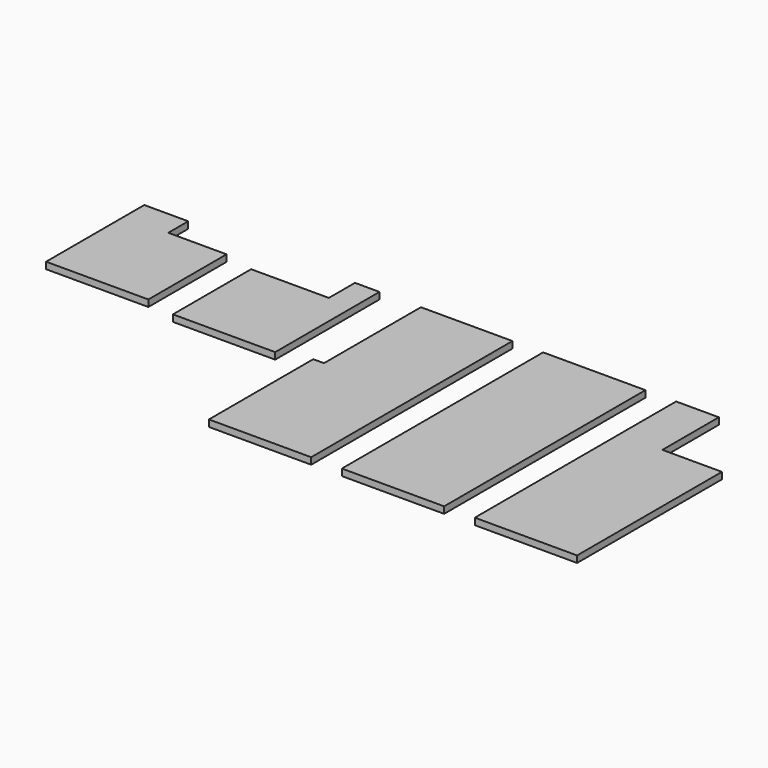
from build123d import *

# Parameters (mm, degrees)
F0_W     = 1000
F0_H     = 2460
F1_DEPTH = 65


with BuildPart() as f1:
    # F0 (on Top) → F1 (new body)
    with BuildSketch(Plane.XY):
        Polygon((-124.673125, 660.025937), (-554.673125, 660.025937), (-554.673125, -539.974063), (445.326875, -539.974063), (445.326875, 416.025937), (-124.673125, 416.025937), align=None)
        Polygon((745.326875, 341.025937), (745.326875, -614.974063), (1745.326875, -614.974063), (1745.326875, 660.025937), (1505.326875, 660.025937), (1505.326875, 341.025937), align=None)
        Polygon((3045.326875, 660.025937), (2150.326875, 660.025937), (2150.326875, -524.974063), (2045.326875, -524.974063), (2045.326875, -1799.974063), (3045.326875, -1799.974063), align=None)
        with Locations((3845.326875, -569.974063)):
            Rectangle(F0_W, F0_H)
        Polygon((5063.326875, 660.025937), (4645.326875, 660.025937), (4645.326875, -1799.974063), (5645.326875, -1799.974063), (5645.326875, -29.974063), (5063.326875, -29.974063), align=None)
    extrude(amount=F1_DEPTH)


solid = f1.part
